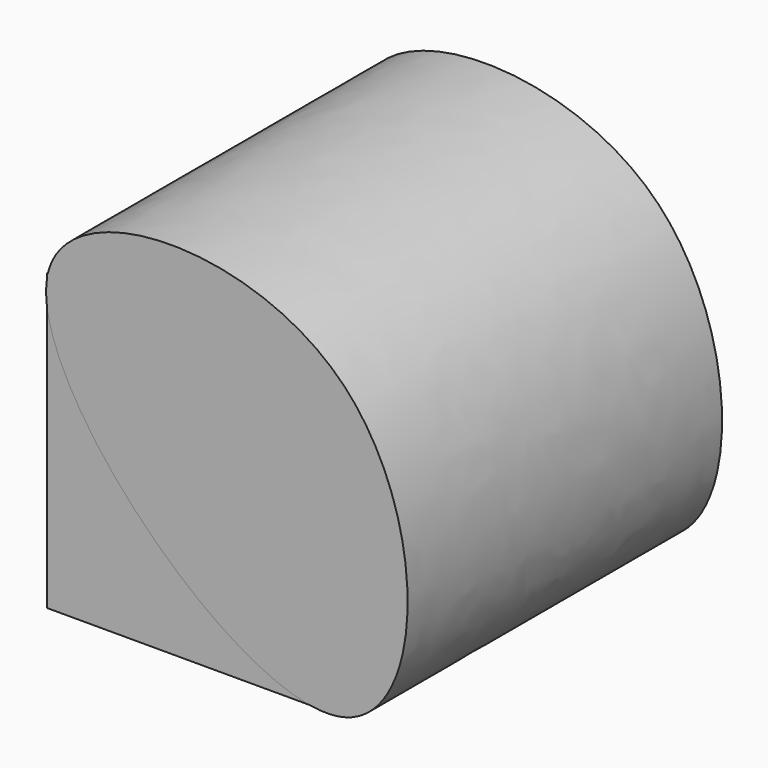
from build123d import *

# Parameters (mm, degrees)
F0_W     = 152.0343571901
F0_H     = 152.3414999247
F2_DEPTH = 203.2


with BuildPart() as f2:
    # F0 (on Front) → F2 (new body)
    with BuildSketch(Plane.XZ):
        with Locations((0.1535713673, 0.1535713673)):
            Rectangle(F0_W, F0_H)
    extrude(amount=F2_DEPTH)


with BuildPart() as f2b:
    # F1 (on face) → F2, piece 2 (new body)
    with BuildSketch(Plane.XZ):
        with BuildLine():
            add(Edge.make_bspline(
                [(-75.5564644933, 75.7100358605), (-86.6668516936, 23.1423527036), (118.174936648, -180.7554096371), (125.3172743548, 126.2112959556), (-66.2231449888, 119.869701376), (-75.5564644933, 75.7100358605)],
                knots=[0, 0, 0, 0, 0.3727658013, 0.686856789, 1, 1, 1, 1], degree=3))
        make_face()
    extrude(amount=F2_DEPTH)


solid = Compound([f2.part, f2b.part])
